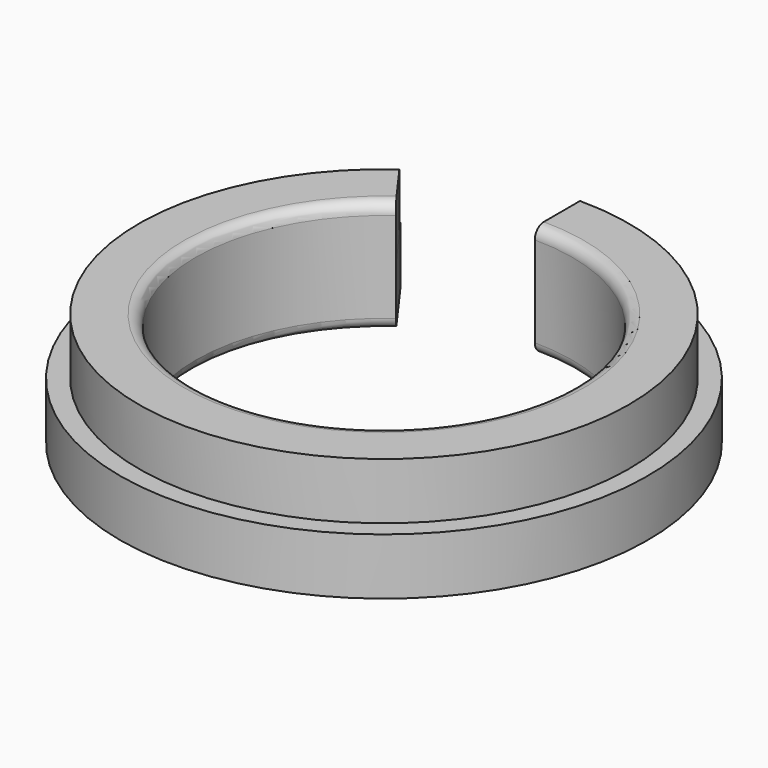
from build123d import *

# Parameters (mm, degrees)
PAD_DEPTH    = 1.5
PAD001_DEPTH = 1.5
FILLET_R     = 0.3
FILLET001_R  = 0.3


with BuildPart() as part:
    # Sketch → Pad (new body)
    with BuildSketch(Plane.XY):
        with BuildLine():
            ThreePointArc((-3.805944, 5.269231), (2, -6.184658), (0, 6.5))
            Line((0, 6.5), (0, 5))
            ThreePointArc((-2.927649, 4.053254), (1.538462, -4.75743), (0, 5))
            Line((-3.805944, 5.269231), (-2.927649, 4.053254))
        make_face()
    extrude(amount=PAD_DEPTH)

    # Sketch001 (on Face6 of Pad) → Pad001 (join)
    with BuildSketch(Plane.XY):
        with BuildLine():
            ThreePointArc((-2.927649, 4.053254), (1.538462, -4.75743), (0, 5))
            Line((0, 7), (0, 5))
            ThreePointArc((-4.098709, 5.674556), (2.153846, -6.660401), (0, 7))
            Line((-4.098709, 5.674556), (-2.927649, 4.053254))
        make_face()
    extrude(amount=-PAD001_DEPTH)

    # Fillet
    fillet_edges = [part.edges().sort_by_distance(p)[0] for p in [
        (1.538462, -4.75743, 1.5),
    ]]
    fillet(fillet_edges, radius=FILLET_R)

    # Fillet001
    fillet001_edges = [part.edges().sort_by_distance(p)[0] for p in [
        (1.538462, -4.75743, -1.5),
    ]]
    fillet(fillet001_edges, radius=FILLET001_R)


solid = part.part
